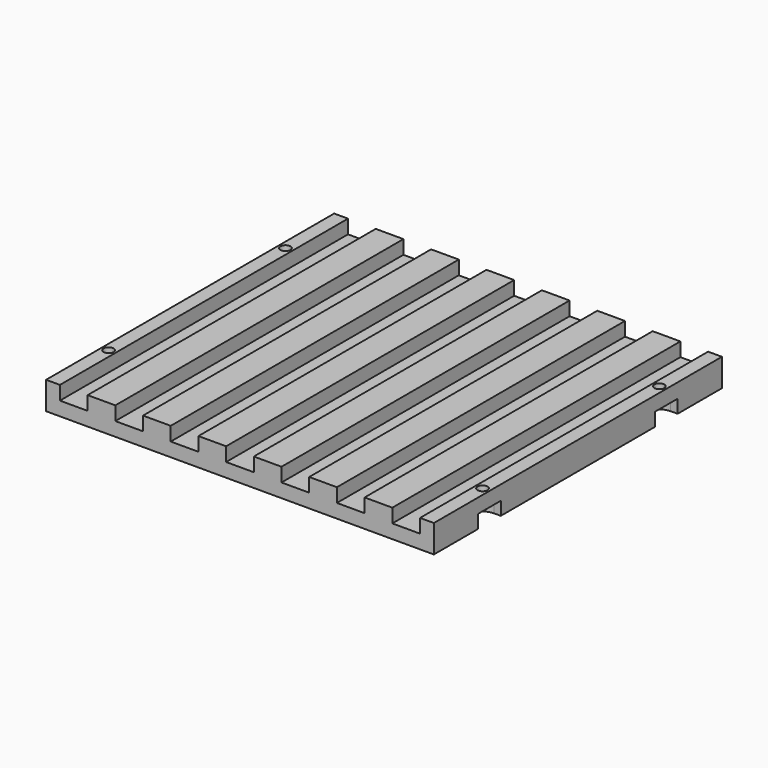
from build123d import *

# Parameters (mm, degrees)
F1_DEPTH = 165.1
F3_DEPTH = 6.096
F4_R     = 2.286
F5_DEPTH = 25.4


with BuildPart() as f1:
    # F0 (on Front) → F1 (new body)
    with BuildSketch(Plane.XZ):
        Polygon((-88.9, 12.7), (-88.9, 0), (88.9, 0), (88.9, 6.35), (88.9, 12.7), (82.55, 12.7), (82.55, 6.35), (69.85, 6.35), (69.85, 12.7), (57.15, 12.7), (57.15, 6.35), (44.45, 6.35), (44.45, 12.7), (31.75, 12.7), (31.75, 6.35), (19.05, 6.35), (19.05, 12.7), (6.35, 12.7), (6.35, 6.35), (-6.35, 6.35), (-6.35, 12.7), (-19.05, 12.7), (-19.05, 6.35), (-31.75, 6.35), (-31.75, 12.7), (-44.45, 12.7), (-44.45, 6.35), (-57.15, 6.35), (-57.15, 12.7), (-69.85, 12.7), (-69.85, 6.35), (-82.55, 6.35), (-82.55, 12.7), align=None)
    extrude(amount=F1_DEPTH)

    # F2 (on face) → F3 (cut)
    with BuildSketch(Plane(origin=(0, 0, 0), x_dir=(1, 0, 0), z_dir=(0, 0, -1))):
        with BuildLine():
            Line((85.725, 126.746), (88.9, 126.746))
            Line((88.9, 126.746), (88.9, 139.7))
            Line((88.9, 139.7), (85.725, 139.7))
            ThreePointArc((85.725, 139.7), (79.248, 133.223), (85.725, 126.746))
        make_face()
        with BuildLine():
            Line((88.9, 25.4), (88.9, 38.354))
            Line((88.9, 38.354), (85.725, 38.354))
            ThreePointArc((85.725, 38.354), (79.248, 31.877), (85.725, 25.4))
            Line((85.725, 25.4), (88.9, 25.4))
        make_face()
        with BuildLine():
            Line((-88.9, 139.7), (-88.9, 126.746))
            Line((-88.9, 126.746), (-85.725, 126.746))
            ThreePointArc((-85.725, 126.746), (-79.248, 133.223), (-85.725, 139.7))
            Line((-85.725, 139.7), (-88.9, 139.7))
        make_face()
        with BuildLine():
            Line((-85.725, 38.354), (-88.9, 38.354))
            Line((-88.9, 38.354), (-88.9, 25.4))
            Line((-88.9, 25.4), (-85.725, 25.4))
            ThreePointArc((-85.725, 25.4), (-79.248, 31.877), (-85.725, 38.354))
        make_face()
    extrude(amount=-F3_DEPTH, mode=Mode.SUBTRACT)

    # F4 (on face) → F5 (cut)
    with BuildSketch(Plane(origin=(0, 0, 0), x_dir=(1, 0, 0), z_dir=(0, 0, -1))):
        with Locations((-85.725, 133.223)):
            Circle(F4_R)
        with Locations((85.725, 133.223)):
            Circle(F4_R)
        with Locations((85.725, 31.877)):
            Circle(F4_R)
        with Locations((-85.725, 31.877)):
            Circle(F4_R)
    extrude(amount=-F5_DEPTH, mode=Mode.SUBTRACT)


solid = f1.part
